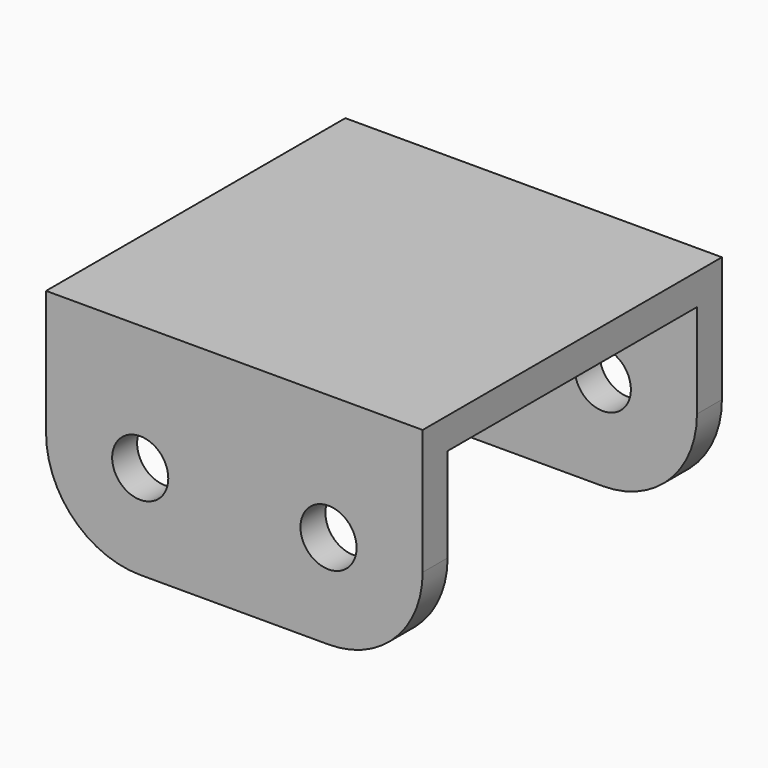
from build123d import *

# Parameters (mm, degrees)
F0_R     = 2.25
F1_DEPTH = 15
F2_W     = 30.2
F2_H     = 30
F3_DEPTH = 2.5
F4_W     = 25
F4_H     = 7.55
F5_DEPTH = 30.201


with BuildPart() as f1:
    # F0 (on Front) → F1 (new body, symmetric)
    with BuildSketch(Plane.XZ):
        with BuildLine():
            ThreePointArc((-7.55, -7.55), (-2.211344, -5.338656), (0, 0))
            ThreePointArc((0, 0), (-2.211344, 5.338656), (-7.55, 7.55))
            ThreePointArc((-7.55, 7.55), (-12.888656, 5.338656), (-15.1, 0))
            ThreePointArc((-15.1, 0), (-12.888656, -5.338656), (-7.55, -7.55))
        make_face()
        with Locations((-7.55, 0)):
            Circle(F0_R, mode=Mode.SUBTRACT)
        with BuildLine():
            ThreePointArc((-15.1, 0), (-12.888656, 5.338656), (-7.55, 7.55))
            Line((-7.55, 7.55), (-15.1, 7.55))
            Line((-15.1, 7.55), (-15.1, 0))
        make_face()
        with BuildLine():
            ThreePointArc((-7.55, 7.55), (-2.211344, 5.338656), (0, 0))
            ThreePointArc((0, 0), (2.211344, 5.338656), (7.55, 7.55))
            Line((7.55, 7.55), (-7.55, 7.55))
        make_face()
        with BuildLine():
            Line((15.1, 7.55), (7.55, 7.55))
            ThreePointArc((7.55, 7.55), (12.888656, 5.338656), (15.1, 0))
            Line((15.1, 0), (15.1, 7.55))
        make_face()
        with BuildLine():
            ThreePointArc((7.55, -7.55), (2.211344, -5.338656), (0, 0))
            ThreePointArc((0, 0), (-2.211344, -5.338656), (-7.55, -7.55))
            Line((-7.55, -7.55), (7.55, -7.55))
        make_face()
        with BuildLine():
            ThreePointArc((7.55, 7.55), (2.211344, 5.338656), (0, 0))
            ThreePointArc((0, 0), (2.211344, -5.338656), (7.55, -7.55))
            ThreePointArc((7.55, -7.55), (12.888656, -5.338656), (15.1, 0))
            ThreePointArc((15.1, 0), (12.888656, 5.338656), (7.55, 7.55))
        make_face()
        with Locations((7.55, 0)):
            Circle(F0_R, mode=Mode.SUBTRACT)
    extrude(amount=F1_DEPTH, both=True)

    # F2 (on face) → F3 (join)
    with BuildSketch(Plane.XY.offset(7.55)):
        Rectangle(F2_W, F2_H)
    extrude(amount=F3_DEPTH)

    # F4 (on face) → F5 (cut, through all)
    with BuildSketch(Plane.YZ.offset(15.1)):
        with Locations((0, 3.775)):
            Rectangle(F4_W, F4_H)
        with Locations((0, -3.775)):
            Rectangle(F4_W, F4_H)
    extrude(amount=-F5_DEPTH, mode=Mode.SUBTRACT)


solid = f1.part
